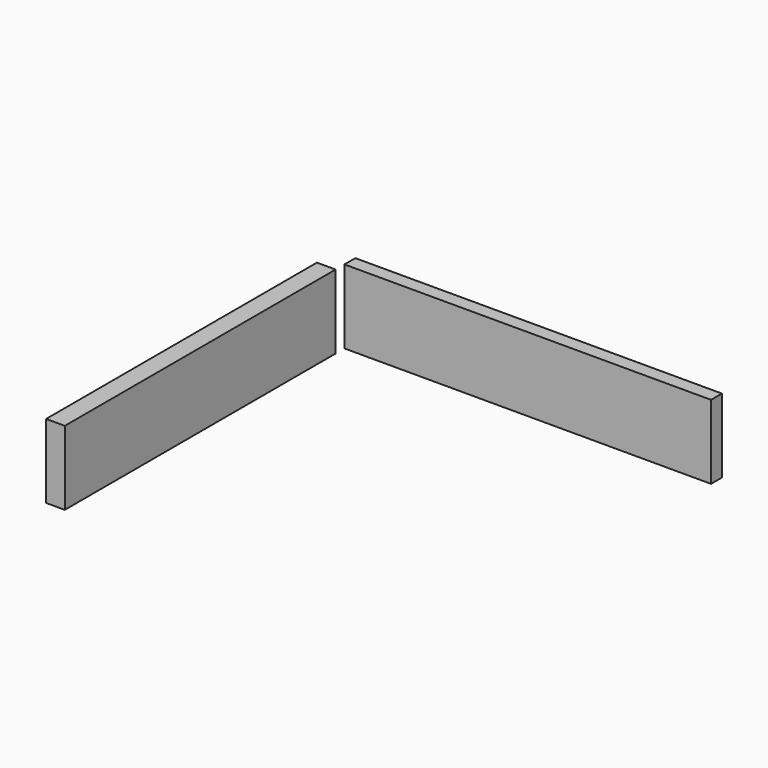
from build123d import *

# Parameters (mm, degrees)
F0_W     = 6.423202
F0_H     = 116.201505
F0_W_2   = 125.836301
F0_H_2   = 4.671417
F1_DEPTH = 25.4


with BuildPart() as f1:
    # F0 (on Top) → F1 (new body)
    with BuildSketch(Plane.XY):
        with Locations((-63.794041, -3.795527)):
            Rectangle(F0_W, F0_H)
        with Locations((2.335711, 60.436461)):
            Rectangle(F0_W_2, F0_H_2)
    extrude(amount=F1_DEPTH)


solid = f1.part
